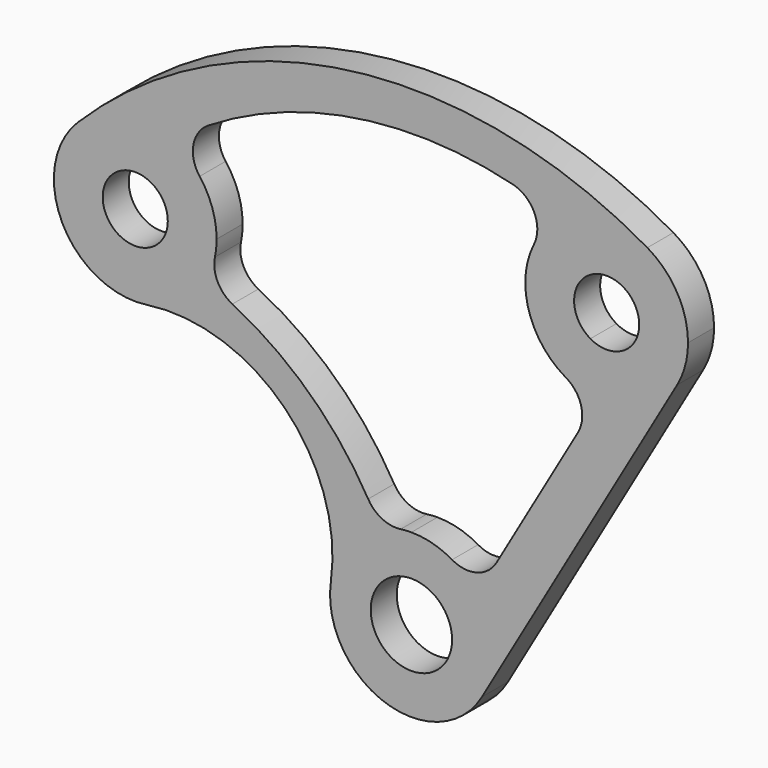
from build123d import *

# Parameters (mm, degrees)
F1_DEPTH = 12.7


with BuildPart() as f1:
    # F0 (on Front) → F1 (new body)
    with BuildSketch(Plane.XZ):
        with BuildLine():
            ThreePointArc((-76.6615778684, 102.701242205), (-79.8079393943, 94.0332154271), (-85.3124331502, 86.6349164629))
            Line((-85.3124331502, 86.6349164629), (-73.4535511858, 74.7760344986))
            ThreePointArc((-73.4535511858, 74.7760344986), (-49.3914086659, 59.6941480997), (-34.309522267, 35.6320055797))
            Line((-34.309522267, 35.6320055797), (-22.4506403027, 23.7731236154))
            ThreePointArc((-22.4506403027, 23.7731236154), (-14.0635457715, 29.7878865302), (-4.1903736131, 32.7947452108))
            ThreePointArc((-4.1903736131, 32.7947452108), (-11.4735568319, 33.9884241162), (-16.8631754222, 39.0304116786))
            ThreePointArc((-16.8631754222, 39.0304116786), (-39.690876035, 67.8137699888), (-69.8640218822, 88.7700793147))
            ThreePointArc((-69.8640218822, 88.7700793147), (-75.6347361649, 94.5783008286), (-76.6615778684, 102.701242205))
        make_face()
        with BuildLine():
            Line((-73.4535511858, 74.7760344986), (-85.3124331502, 86.6349164629))
            ThreePointArc((-85.3124331502, 86.6349164629), (-93.5640417957, 80.6874934513), (-103.2729453923, 77.6546603418))
            ThreePointArc((-103.2729453923, 77.6546603418), (-88.1910589934, 77.9990389332), (-73.4535511858, 74.7760344986))
        make_face()
        with BuildLine():
            Line((-22.4506403027, 23.7731236154), (-34.309522267, 35.6320055797))
            ThreePointArc((-34.309522267, 35.6320055797), (-31.0865178324, 20.8944977722), (-31.4308964237, 5.8126113733))
            ThreePointArc((-31.4308964237, 5.8126113733), (-28.3980633142, 15.5215149699), (-22.4506403027, 23.7731236154))
        make_face()
        with BuildLine():
            Line((27.4963065702, -14.5525166873), (103.6963065702, 117.4297548495))
            ThreePointArc((103.6963065702, 117.4297548495), (84.417504682, 102.6366098648), (60.325, 105.8084482793))
            ThreePointArc((60.325, 105.8084482793), (66.2422579939, 98.0969275241), (64.9735226281, 88.4599256513))
            Line((64.9735226281, 88.4599256513), (33.2235226281, 33.467312511))
            ThreePointArc((33.2235226281, 33.467312511), (25.5120018728, 27.5500545171), (15.875, 28.8187898829))
            ThreePointArc((15.875, 28.8187898829), (27.4963065702, 17.1974833127), (31.75, 1.3224833127))
            ThreePointArc((31.75, 1.3224833127), (30.6681449847, -6.8950213693), (27.4963065702, -14.5525166873))
        make_face()
        with BuildLine():
            ThreePointArc((92.075, 160.8010614196), (-24.0363982973, 183.8970545347), (-130.2137137555, 131.5361970682))
            ThreePointArc((-130.2137137555, 131.5361970682), (-105.7367190454, 140.7708275994), (-82.6354727067, 128.4934464175))
            ThreePointArc((-82.6354727067, 128.4934464175), (-85.0809337208, 138.5209907043), (-79.2724649931, 147.0529081346))
            ThreePointArc((-79.2724649931, 147.0529081346), (-21.7373717549, 168.3372367219), (39.542821328, 165.5004193044))
            ThreePointArc((39.542821328, 165.5004193044), (47.9856006443, 158.4820206871), (47.8023187461, 147.5045506016))
            ThreePointArc((47.8023187461, 147.5045506016), (67.0674381234, 163.7129579133), (92.075, 160.8010614196))
        make_face()
        with BuildLine():
            ThreePointArc((-116.7433295739, 118.0658128866), (-102.9029938618, 120.8188268285), (-95.0630734528, 109.0855567656))
            ThreePointArc((-95.0630734528, 109.0855567656), (-96.0298033899, 104.2254771745), (-98.7828173318, 100.1053006445))
            Line((-98.7828173318, 100.1053006445), (-85.3124331502, 86.6349164629))
            ThreePointArc((-85.3124331502, 86.6349164629), (-79.8079393943, 94.0332154271), (-76.6615778684, 102.701242205))
            ThreePointArc((-76.6615778684, 102.701242205), (-76.175615619, 105.8769733404), (-76.0130734528, 109.0855567656))
            ThreePointArc((-76.0130734528, 109.0855567656), (-77.7142479875, 119.338877601), (-82.6354727067, 128.4934464175))
            ThreePointArc((-82.6354727067, 128.4934464175), (-105.7367190454, 140.7708275994), (-130.2137137555, 131.5361970682))
            Line((-130.2137137555, 131.5361970682), (-116.7433295739, 118.0658128866))
        make_face()
        with BuildLine():
            ThreePointArc((107.95, 133.3047548495), (103.6963065702, 149.1797548495), (92.075, 160.8010614196))
            Line((92.075, 160.8010614196), (82.55, 144.3032774775))
            ThreePointArc((82.55, 144.3032774775), (87.1985226281, 139.6547548495), (88.9, 133.3047548495))
            ThreePointArc((88.9, 133.3047548495), (82.55, 122.3062322214), (69.85, 122.3062322214))
            Line((69.85, 122.3062322214), (60.325, 105.8084482793))
            ThreePointArc((60.325, 105.8084482793), (84.417504682, 102.6366098648), (103.6963065702, 117.4297548495))
            ThreePointArc((103.6963065702, 117.4297548495), (106.8681449847, 125.0872501675), (107.95, 133.3047548495))
        make_face()
        with BuildLine():
            Line((82.55, 144.3032774775), (92.075, 160.8010614196))
            ThreePointArc((92.075, 160.8010614196), (67.0674381234, 163.7129579133), (47.8023187461, 147.5045506016))
            ThreePointArc((47.8023187461, 147.5045506016), (45.7917969362, 124.1721929729), (60.325, 105.8084482793))
            Line((60.325, 105.8084482793), (69.85, 122.3062322214))
            ThreePointArc((69.85, 122.3062322214), (65.2014773719, 139.6547548495), (82.55, 144.3032774775))
        make_face()
        with BuildLine():
            ThreePointArc((-98.7828173318, 100.1053006445), (-116.7433295739, 100.1053006445), (-116.7433295739, 118.0658128866))
            Line((-116.7433295739, 118.0658128866), (-130.2137137555, 131.5361970682))
            ThreePointArc((-130.2137137555, 131.5361970682), (-136.1611367671, 94.8865251084), (-103.2729453923, 77.6546603418))
            ThreePointArc((-103.2729453923, 77.6546603418), (-93.5640417957, 80.6874934513), (-85.3124331502, 86.6349164629))
            Line((-85.3124331502, 86.6349164629), (-98.7828173318, 100.1053006445))
        make_face()
        with BuildLine():
            ThreePointArc((-4.1903736131, 32.7947452108), (-14.0635457715, 29.7878865302), (-22.4506403027, 23.7731236154))
            Line((-22.4506403027, 23.7731236154), (-11.2253201513, 12.5478034641))
            ThreePointArc((-11.2253201513, 12.5478034641), (-6.0750994888, 15.9890708914), (0, 17.1974833127))
            Line((0, 17.1974833127), (0, 33.0724833127))
            ThreePointArc((0, 33.0724833127), (-2.0997838859, 33.0029726971), (-4.1903736131, 32.7947452108))
        make_face()
        with BuildLine():
            Line((7.9375, 15.0706365978), (15.875, 28.8187898829))
            ThreePointArc((15.875, 28.8187898829), (8.217504682, 31.9906282974), (0, 33.0724833127))
            Line((0, 33.0724833127), (0, 17.1974833127))
            ThreePointArc((0, 17.1974833127), (4.108752341, 16.6565558051), (7.9375, 15.0706365978))
        make_face()
        with BuildLine():
            Line((-11.2253201513, 12.5478034641), (-22.4506403027, 23.7731236154))
            ThreePointArc((-22.4506403027, 23.7731236154), (-28.3980633142, 15.5215149699), (-31.4308964237, 5.8126113733))
            ThreePointArc((-31.4308964237, 5.8126113733), (-10.3708659021, -28.6859761686), (27.4963065702, -14.5525166873))
            ThreePointArc((27.4963065702, -14.5525166873), (30.6681449847, -6.8950213693), (31.75, 1.3224833127))
            ThreePointArc((31.75, 1.3224833127), (27.4963065702, 17.1974833127), (15.875, 28.8187898829))
            Line((15.875, 28.8187898829), (7.9375, 15.0706365978))
            ThreePointArc((7.9375, 15.0706365978), (13.7481532851, 9.2599833127), (15.875, 1.3224833127))
            ThreePointArc((15.875, 1.3224833127), (-6.0750994888, -13.3441042659), (-11.2253201513, 12.5478034641))
        make_face()
    extrude(amount=F1_DEPTH)


solid = f1.part
